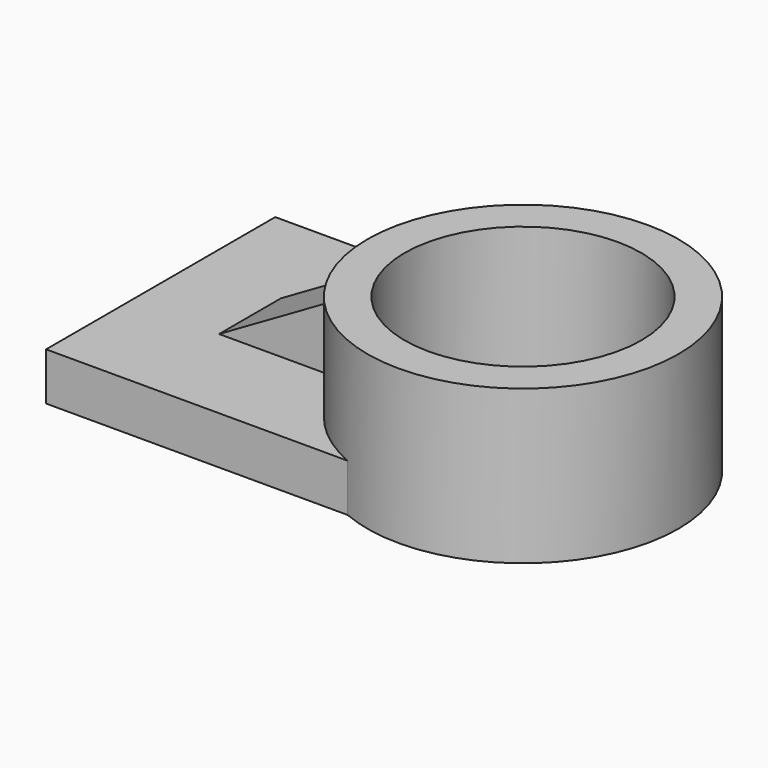
from build123d import *

# Parameters (mm, degrees)
F0_W     = 193.0230408907
F0_H     = 152.3501798511
F2_DEPTH = 25.4
F3_DEPTH = 82.042
F4_R     = 82.7208063485
F4_R_2   = 62.9840996432
F5_DEPTH = 81.788
F7_DEPTH = 62.992
F9_DEPTH = 46.228


with BuildPart() as f2:
    # F0 (on Top) → F2 (new body)
    with BuildSketch(Plane.XY):
        with Locations((-20.3011333942, 0.0200085342)):
            Rectangle(F0_W, F0_H)
    extrude(amount=F2_DEPTH)

    # F1 (on face) → F3 (cut)
    with BuildSketch(Plane.XY):
        with BuildLine():
            Line((76.2103870511, -63.3074275445), (76.2103870511, 63.3074275445))
            ThreePointArc((76.2103870511, 63.3074275445), (12.8221735358, 0), (76.2103870511, -63.3074275445))
        make_face()
    extrude(amount=F3_DEPTH, mode=Mode.SUBTRACT)

    # F4 (on Top) → F5 (join)
    with BuildSketch(Plane.XY):
        with Locations((75.9201049805, 0)):
            Circle(F4_R)
        with Locations((75.9201049805, 0)):
            Circle(F4_R_2, mode=Mode.SUBTRACT)
    extrude(amount=F5_DEPTH)

    # F6 (on face) → F7 (join)
    with BuildSketch(Plane(origin=(0, 0, 0), x_dir=(1, 0, 0), z_dir=(0, 0, -1))):
        Polygon((8.5411956534, -20.6989627331), (8.5411956534, 0), (8.5411956534, 20.5139704049), (-69.3054571748, 20.5139704049), (-69.3054571748, -20.6989627331), align=None)
    extrude(amount=-F7_DEPTH)

    # F8 (on face) → F9 (cut)
    with BuildSketch(Plane.XZ.offset(20.5139704049)):
        Polygon((-69.3054571748, 25.4), (-4.2167081654, 62.992), (-69.3054571748, 62.992), align=None)
    extrude(amount=-F9_DEPTH, mode=Mode.SUBTRACT)


solid = f2.part
